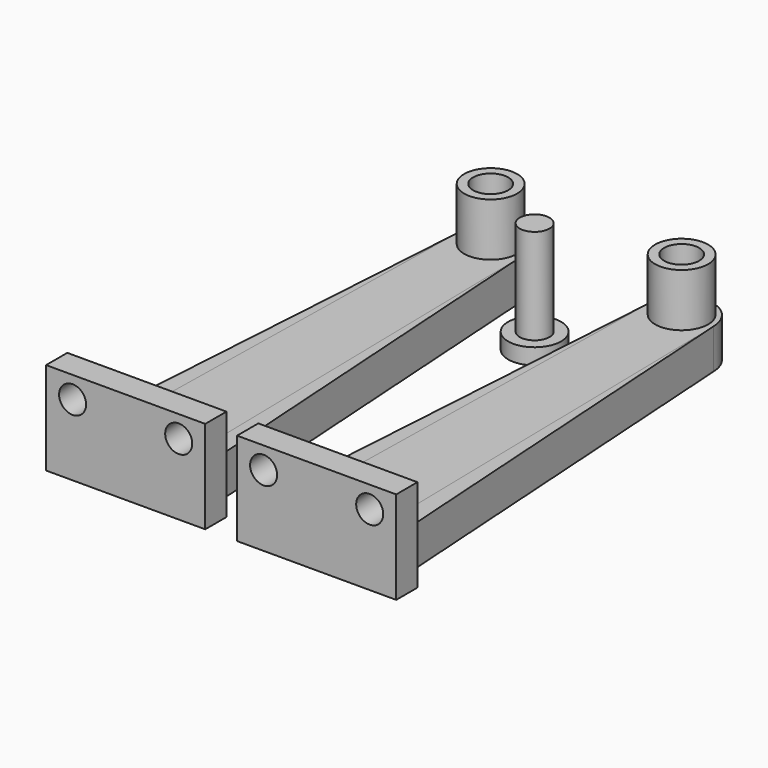
from build123d import *

# Parameters (mm, degrees)
F0_R      = 6.35
F1_DEPTH  = 22.225
F2_DEPTH  = 9.525
F4_DEPTH  = 12.7
F6_DEPTH  = 9.525
F8_D      = 6.477
F12_D     = 8.382
F12_2_D   = 8.382
F13_R     = 6.35
F14_DEPTH = 3.81
F15_R     = 3.556
F16_DEPTH = 22.86


with BuildPart() as f1:
    # F0 (on Top) → F1 (new body)
    with BuildSketch(Plane.XY):
        with Locations((0, 109.22)):
            Circle(F0_R)
    extrude(amount=F1_DEPTH)

    # F0 (on Top) → F2 (join)
    with BuildSketch(Plane.XY):
        with Locations((0, 109.22)):
            Circle(F0_R)
        Polygon((-19.05, 0), (0, 0), (19.05, 0), (19.05, 6.35), (9.525, 6.35), (0, 6.35), (-9.525, 6.35), (-19.05, 6.35), align=None)
        with BuildLine():
            Line((0, 6.35), (9.525, 6.35))
            Line((9.525, 6.35), (7.62, 109.22))
            ThreePointArc((7.62, 109.22), (0, 116.700195), (-7.62, 109.22))
            Line((-7.62, 109.22), (-9.525, 6.35))
            Line((-9.525, 6.35), (0, 6.35))
        make_face()
        with Locations((0, 109.22)):
            Circle(F0_R, mode=Mode.SUBTRACT)
    extrude(amount=F2_DEPTH)

    # F3 (on face) → F4 (join)
    with BuildSketch(Plane.XY.offset(9.525)):
        Polygon((-9.525, 6.35), (-19.05, 6.35), (-19.05, 0), (19.05, 0), (19.05, 6.35), (9.525, 6.35), align=None)
    extrude(amount=F4_DEPTH)

    # F8 (through all)
    with Locations(Plane(origin=(0, 6.35, 0), x_dir=(-1, 0, 0), z_dir=(0, 1, 0))):
        with Locations((12.7, 17.02979), (-12.7, 17.02979)):
            Hole(F8_D / 2)

    # F12 (through all)
    with Locations(Plane.XY.offset(22.225)):
        with Locations((0, 109.22), (45.72, 109.22)):
            Hole(F12_D / 2)


with BuildPart() as f6:
    # F5 (on face) → F6 (new body)
    with BuildSketch(Plane(origin=(0, 0, 0), x_dir=(1, 0, 0), z_dir=(0, 0, -1))):
        Polygon((9.525, -6.35), (7.62, -109.22), (14.2875, -6.35), align=None)
        Polygon((-14.2875, -6.35), (-7.62, -109.22), (-9.525, -6.35), align=None)
    extrude(amount=-F6_DEPTH)


with BuildPart() as f9_1:
    # F9: copy of F6
    add(f6.part.moved(Location((45.72, 0, 0))))


with BuildPart() as f9_2:
    # F9: copy of F1
    add(f1.part.moved(Location((45.72, 0, 0))))

    # F12#2 (through all)
    with Locations(Plane.XY.offset(22.225)):
        with Locations((0, 109.22), (45.72, 109.22)):
            Hole(F12_2_D / 2)


with BuildPart() as f14:
    # F13 (on Top) → F14 (new body)
    with BuildSketch(Plane.XY):
        with Locations((21.697115, 95.25729)):
            Circle(F13_R)
    extrude(amount=F14_DEPTH)

    # F15 (on face) → F16 (join)
    with BuildSketch(Plane.XY.offset(3.81)):
        with Locations((21.697115, 95.25729)):
            Circle(F15_R)
    extrude(amount=F16_DEPTH)


solid = Compound([f1.part, f6.part, f9_1.part, f9_2.part, f14.part])
